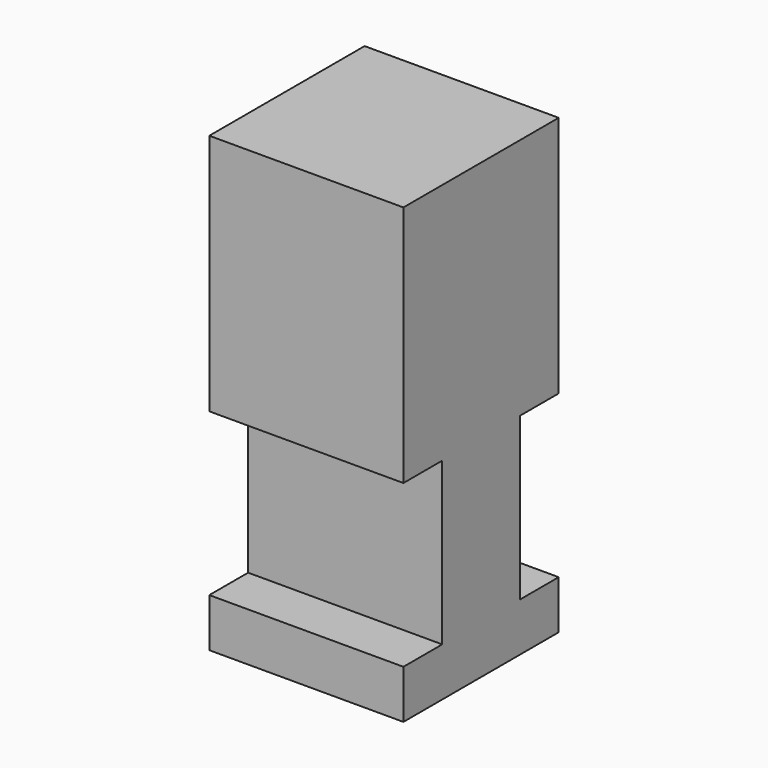
from build123d import *

# Parameters (mm, degrees)
F0_W     = 12
F0_H     = 12
F1_DEPTH = 3
F2_W     = 12
F2_H     = 6
F3_DEPTH = 10
F4_W     = 12
F4_H     = 3
F4_H_2   = 6
F5_DEPTH = 15


with BuildPart() as f1:
    # F0 (on Top) → F1 (new body)
    with BuildSketch(Plane.XY):
        with Locations((-6, 6)):
            Rectangle(F0_W, F0_H)
    extrude(amount=F1_DEPTH)

    # F2 (on face) → F3 (join)
    with BuildSketch(Plane.XY.offset(3)):
        with Locations((-6, 6)):
            Rectangle(F2_W, F2_H)
    extrude(amount=F3_DEPTH)

    # F4 (on face) → F5 (join)
    with BuildSketch(Plane.XY.offset(13)):
        with Locations((-6, 1.5)):
            Rectangle(F4_W, F4_H)
        with Locations((-6, 6)):
            Rectangle(F4_W, F4_H_2)
        with Locations((-6, 10.5)):
            Rectangle(F4_W, F4_H)
    extrude(amount=F5_DEPTH)


solid = f1.part
